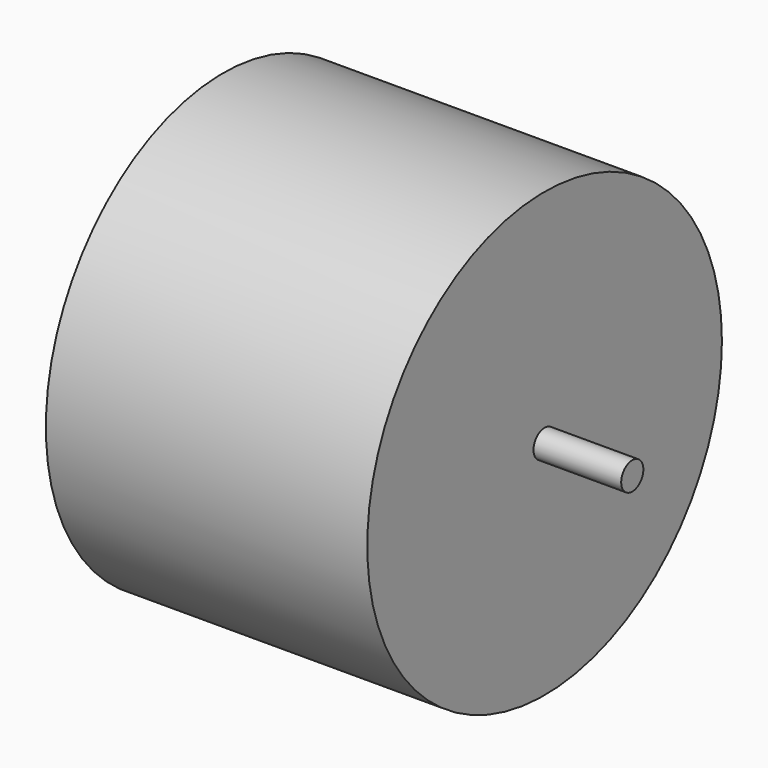
from build123d import *

# Parameters (mm, degrees)
F0_R          = 10.16
F0_R_2        = 0.635
F1_DEPTH      = 7.366
F1_DEPTH_BACK = 7.366
F2_DEPTH      = 11.38555
F2_DEPTH_BACK = 11.38555


with BuildPart() as f1:
    # F0 (on Right) → F1 (new body, two sides)
    with BuildSketch(Plane.YZ) as f1_sk:
        Circle(F0_R)
        Circle(F0_R_2, mode=Mode.SUBTRACT)
    extrude(amount=F1_DEPTH)
    extrude(f1_sk.sketch, amount=-F1_DEPTH_BACK)

    # F0 (on Right) → F2 (join, two sides)
    with BuildSketch(Plane.YZ) as f2_sk:
        Circle(F0_R_2)
    extrude(amount=F2_DEPTH)
    extrude(f2_sk.sketch, amount=-F2_DEPTH_BACK)


solid = f1.part
